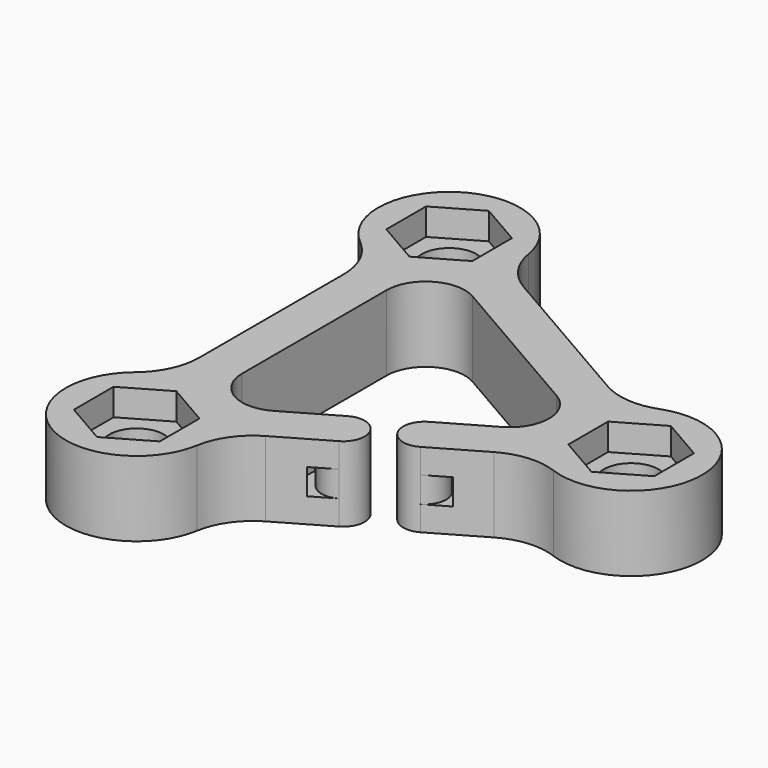
from build123d import *

# Parameters (mm, degrees)
F0_R     = 2.55
F1_DEPTH = 7
F3_DEPTH = 2.5
F6_DEPTH = 1.2


with BuildPart() as f1:
    # F0 (on Top) → F1 (new body)
    with BuildSketch(Plane.XY):
        with BuildLine():
            ThreePointArc((-22.0288725662, 15.0277765828), (-23.9870436526, 16.827971802), (-24.9929573966, 19.2903434982))
            ThreePointArc((-24.9929573966, 19.2903434982), (-34.8, 23.9023011445), (-35.7094488189, 13.1031742908))
            ThreePointArc((-35.7094488189, 13.1031742908), (-34.0799292484, 11.0008415863), (-33.5, 8.404918071))
            Line((-33.5, 8.404918071), (-33.5, -8.404918071))
            ThreePointArc((-33.5, -8.404918071), (-34.0799292484, -11.0008415863), (-35.7094488189, -13.1031742908))
            ThreePointArc((-35.7094488189, -13.1031742908), (-34.8, -23.9023011445), (-24.9929573966, -19.2903434982))
            ThreePointArc((-24.9929573966, -19.2903434982), (-23.9870430876, -16.8279709896), (-22.0288708522, -15.0277755932))
            Line((-22.0288708522, -15.0277755932), (-17.348076829, -12.3253179039))
            ThreePointArc((-17.348076829, -12.3253179039), (-16.6160260214, -9.5932670963), (-19.348076829, -8.8612162887))
            Line((-19.348076829, -8.8612162887), (-24.0288708522, -11.5636739781))
            ThreePointArc((-24.0288708522, -11.5636739781), (-27.6762899984, -11.5636754624), (-29.5, -8.404918071))
            Line((-29.5, -8.404918071), (-29.5, 8.404918071))
            ThreePointArc((-29.5, 8.404918071), (-27.6762908554, 11.5636749676), (-24.0288725662, 11.5636749676))
            Line((-24.0288725662, 11.5636749676), (-9.4711274338, 3.1587568967))
            ThreePointArc((-9.4711274338, 3.1587568967), (-7.6474182892, -9.615e-07), (-9.4711290992, -3.1587578582))
            Line((-9.4711290992, -3.1587578582), (-14.1519236685, -5.8612158628))
            ThreePointArc((-14.1519236685, -5.8612158628), (-14.8839746302, -8.5932681071), (-12.1519222705, -9.3253186383))
            Line((-12.1519222705, -9.3253186383), (-7.4711290992, -6.6228594733))
            ThreePointArc((-7.4711290992, -6.6228594733), (-4.9330280571, -5.8271302964), (-2.2975937845, -6.1871692074))
            ThreePointArc((-2.2975937845, -6.1871692074), (6.6, 0), (-2.2975937845, 6.1871692074))
            ThreePointArc((-2.2975937845, 6.1871692074), (-4.933027099, 5.8271302157), (-7.4711274338, 6.6228585118))
            Line((-7.4711274338, 6.6228585118), (-22.0288725662, 15.0277765828))
        make_face()
        with Locations((-31.5, -18.1865334795)):
            Circle(F0_R, mode=Mode.SUBTRACT)
        with Locations((-31.5, 18.1865334795)):
            Circle(F0_R, mode=Mode.SUBTRACT)
        Circle(F0_R, mode=Mode.SUBTRACT)
    extrude(amount=F1_DEPTH)

    # F2 (on face) → F3 (cut)
    with BuildSketch(Plane.XY.offset(7)):
        Polygon((-27.5, 15.8771324027), (-27.5, 20.4959345562), (-31.5, 22.805335633), (-35.5, 20.4959345562), (-35.5, 15.8771324027), (-31.5, 13.567731326), align=None)
        Polygon((-27.5, -20.4959345562), (-27.5, -15.8771324027), (-31.5, -13.567731326), (-35.5, -15.8771324027), (-35.5, -20.4959345562), (-31.5, -22.805335633), align=None)
        Polygon((-4, 2.3094010768), (-4, -2.3094010768), (0, -4.6188021535), (4, -2.3094010768), (4, 2.3094010768), (0, 4.6188021535), align=None)
    extrude(amount=-F3_DEPTH, mode=Mode.SUBTRACT)

    # F5 (on mid) → F6 (cut, symmetric)
    with BuildSketch(Plane.XY.offset(3.5)):
        with BuildLine():
            Line((-19.348076829, -8.8612162887), (-21.3992959786, -10.045488217))
            ThreePointArc((-21.3992959786, -10.045488217), (-21.0327555807, -12.1432670963), (-19.3992959786, -13.5095898321))
            Line((-19.3992959786, -13.5095898321), (-17.348076829, -12.3253179039))
            ThreePointArc((-17.348076829, -12.3253179039), (-20.0801276365, -11.5932670963), (-19.348076829, -8.8612162887))
        make_face()
        with BuildLine():
            ThreePointArc((-14.1519236685, -5.8612158628), (-11.4198718547, -6.5932667092), (-12.1519222705, -9.3253186383))
            Line((-12.1519222705, -9.3253186383), (-10.1007041172, -8.1410464231))
            ThreePointArc((-10.1007041172, -8.1410464231), (-10.4672447351, -6.043266985), (-12.1007051418, -4.6769442942))
            Line((-12.1007051418, -4.6769442942), (-14.1519236685, -5.8612158628))
        make_face()
    extrude(amount=F6_DEPTH, both=True, mode=Mode.SUBTRACT)


solid = f1.part
